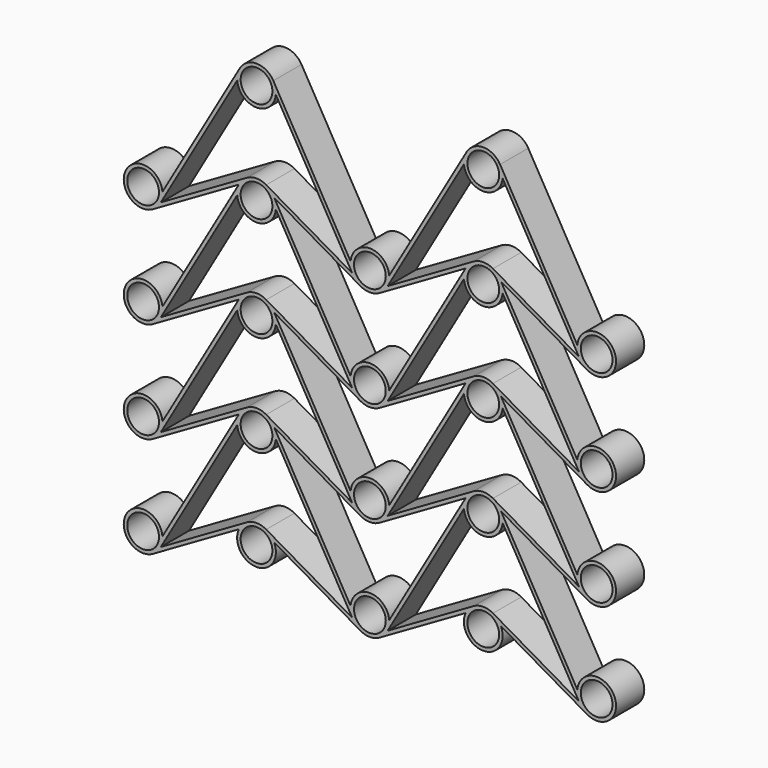
from build123d import *

# Parameters (mm, degrees)
F0_R     = 4.5
F1_DEPTH = 10


with BuildPart() as f1:
    # F0 (on Front) → F1 (new body)
    with BuildSketch(Plane.XZ):
        with BuildLine():
            Line((-5.0260862316, 30.9767425516), (-26.6821867612, -6.5321179012))
            ThreePointArc((-26.6821867612, -6.5321179012), (-37.0411713726, -4.4852449235), (-29.4103165922, -11.7837589152))
            Line((-29.4103165922, -11.7837589152), (-4.9886131993, 2.3159746))
            ThreePointArc((-4.9886131993, 2.3159746), (1.04703e-05, -5.5), (4.9886043814, 2.3159935936))
            Line((4.9886043814, 2.3159935936), (29.3803855621, -11.7664897938))
            Line((29.3803855621, -11.7664897938), (29.4102968085, -11.7837589152))
            ThreePointArc((29.4102968085, -11.7837589152), (32.1604458406, -12.520722091), (34.9106026931, -11.7837880992))
            Line((34.9106026931, -11.7837880992), (59.3322630076, 2.3160200305))
            ThreePointArc((59.3322630076, 2.3160200305), (64.3208938391, -5.4999392347), (69.3094947909, 2.3160391015))
            Line((69.3094947909, 2.3160391015), (93.7311440948, -11.7837880992))
            ThreePointArc((93.7311440948, -11.7837880992), (101.3616643954, -4.4849550373), (91.0027619557, -6.5321346502))
            Line((91.0027619557, -6.5321346502), (69.3471528373, 30.9768645738))
            Line((69.3471528373, 30.9768645738), (93.7311590155, 16.8988117802))
            ThreePointArc((93.7311590155, 16.8988117802), (101.3616229033, 24.197703496), (91.002736164, 22.1504455875))
            Line((91.002736164, 22.1504455875), (69.3471493335, 59.6594696515))
            Line((69.3471493335, 59.6594696515), (93.7311694412, 45.5814375806))
            ThreePointArc((93.7311694412, 45.5814375806), (101.3617019064, 52.8802598575), (91.0027967893, 50.8330869023))
            Line((91.0027967893, 50.8330869023), (69.3471643501, 88.3420408334))
            Line((69.3471643501, 88.3420408334), (69.3094995243, 88.3637867046))
            ThreePointArc((69.3094995243, 88.3637867046), (69.7389379046, 86.9936962439), (69.7991309053, 85.5591433533))
            Line((69.7991309053, 85.5591433533), (91.4549183267, 48.0503287766))
            Line((91.4549183267, 48.0503287766), (67.070869402, 62.1283709446))
            ThreePointArc((67.070869402, 62.1283709446), (64.320838594, 62.8652231845), (61.5708197721, 62.128326212))
            Line((61.5708197721, 62.128326212), (37.1867954039, 48.0503593036))
            Line((37.1867954039, 48.0503593036), (58.8426361049, 85.5591393414))
            ThreePointArc((58.8426361049, 85.5591393414), (58.9028266004, 86.9936839438), (59.3322583087, 88.3637677077))
            Line((59.3322583087, 88.3637677077), (59.2949713292, 88.3422400256))
            Line((59.2949713292, 88.3422400256), (37.6387059062, 50.8330869023))
            ThreePointArc((37.6387059062, 50.8330869023), (32.1604228729, 55.8444793163), (26.6821934568, 50.8330282904))
            Line((26.6821934568, 50.8330282904), (5.0262634508, 88.3418088771))
            Line((5.0262634508, 88.3418088771), (4.9885982667, 88.3635545665))
            ThreePointArc((4.9885982667, 88.3635545665), (5.4180294685, 86.9935693016), (5.4782697334, 85.5591210127))
            Line((5.4782697334, 85.5591210127), (27.1340420376, 48.050297708))
            Line((27.1340420376, 48.050297708), (2.7499513278, 62.1281268209))
            ThreePointArc((2.7499513278, 62.1281268209), (-3.5809e-05, 62.8649589994), (-2.7500133509, 62.1280910122))
            Line((-2.7500133509, 62.1280910122), (-27.1340601257, 48.050336466))
            Line((-27.1340601257, 48.050336466), (-5.4782720397, 85.5591468811))
            ThreePointArc((-5.4782720397, 85.5591468811), (-5.4180290022, 86.9935719723), (-4.9886069196, 88.3635359282))
            Line((-4.9886069196, 88.3635359282), (-5.0254989589, 88.3422366453))
            Line((-5.0254989589, 88.3422366453), (-26.682183023, 50.8330282904))
            ThreePointArc((-26.682183023, 50.8330282904), (-37.0411418963, 52.8799999255), (-29.4103908947, 45.5813862924))
            Line((-29.4103908947, 45.5813862924), (-5.0256353738, 59.6595826996))
            Line((-5.0256353738, 59.6595826996), (-26.6821839443, 22.1504456655))
            ThreePointArc((-26.6821839443, 22.1504456655), (-37.0411455482, 24.19739994), (-29.4103861566, 16.8987960721))
            Line((-29.4103861566, 16.8987960721), (-5.0260862316, 30.9767425516))
        make_face()
        with BuildLine():
            ThreePointArc((-27.6604433261, -7.0206923665), (-28.2557278509, -9.2574751137), (-29.8840864629, -10.9024702364))
            ThreePointArc((-29.8840864629, -10.9024702364), (-36.0651588013, -4.7839096194), (-27.6604433261, -7.0206923665))
        make_face(mode=Mode.SUBTRACT)
        with BuildLine():
            Line((2.249985855, 3.8971224836), (2.5, 3.7527779596))
            Line((2.5, 3.7527779596), (2.5, 3.7416573868))
            ThreePointArc((2.5, 3.7416573868), (3.9686269666, 2.1213203436), (4.5, 0))
            ThreePointArc((4.5, 0), (-2.1213203436, -3.9686269666), (-2.5, 3.7416573868))
            Line((-2.5, 3.7416573868), (-2.5, 3.7527614764))
            Line((-2.5, 3.7527614764), (-2.259868599, 3.8913999942))
            ThreePointArc((-2.259868599, 3.8913999942), (-0.0057099806, 4.4999963773), (2.249985855, 3.8971224836))
        make_face(mode=Mode.SUBTRACT)
        with BuildLine():
            Line((-2.7501213666, 4.7630696477), (-27.134119981, -9.314802918))
            Line((-27.134119981, -9.314802918), (-5.4782714007, 28.1939725706))
            ThreePointArc((-5.4782714007, 28.1939725706), (-1.62686e-05, 23.182380658), (5.4782685113, 28.193940162))
            Line((5.4782685113, 28.193940162), (27.1340554236, -9.3148747086))
            Line((27.1340554236, -9.3148747086), (2.7499814603, 4.7631504211))
            ThreePointArc((2.7499814618, 4.7631504238), (-8.07746e-05, 5.4999999994), (-2.7501213666, 4.7630696477))
        make_face(mode=Mode.SUBTRACT)
        with BuildLine():
            ThreePointArc((-27.6604433261, 21.6619027856), (-28.2606545359, 19.4165414803), (-29.9011755001, 17.7701539641))
            ThreePointArc((-29.9011755001, 17.7701539641), (-36.0602321164, 23.9072640909), (-27.6604433261, 21.6619027856))
        make_face(mode=Mode.SUBTRACT)
        with BuildLine():
            ThreePointArc((-27.6604433261, 50.3444957415), (-28.2582764998, 48.1032697245), (-29.8929295747, 46.457545602))
            ThreePointArc((-29.8929295747, 46.457545602), (-36.0626101525, 52.5857217585), (-27.6604433261, 50.3444957415))
        make_face(mode=Mode.SUBTRACT)
        with BuildLine():
            ThreePointArc((2.5, 32.4240380448), (3.9686269666, 30.8037010015), (4.5, 28.682380658))
            ThreePointArc((4.5, 28.682380658), (-2.1213203436, 24.7137536914), (-2.5, 32.4240380448))
            Line((-2.5, 32.4240380448), (-2.5, 32.4351443463))
            Line((-2.5, 32.4351443463), (-2.2597746546, 32.5738352074))
            ThreePointArc((-2.2597746546, 32.5738352074), (-0.0056689995, 33.1823770871), (2.2499627546, 32.5795164784))
            Line((2.249962754, 32.5795164774), (2.5, 32.4351605923))
            Line((2.5, 32.4351605923), (2.5, 32.4240380448))
        make_face(mode=Mode.SUBTRACT)
        with BuildLine():
            Line((27.1340507109, 19.3677012386), (2.7499614971, 33.4455426082))
            ThreePointArc((2.7499614971, 33.4455426082), (-1.01537e-05, 34.182380658), (-2.7499790839, 33.4455324546))
            Line((-2.7499790839, 33.4455324546), (-27.1340372835, 19.3677240385))
            Line((-27.1340372835, 19.3677240385), (-5.4782710587, 56.8765470753))
            ThreePointArc((-5.4782710587, 56.8765470753), (-1.41697e-05, 51.8649589996), (5.478268542, 56.8765188479))
            Line((5.478268542, 56.8765188479), (27.1340507109, 19.3677012386))
        make_face(mode=Mode.SUBTRACT)
        with Locations((32.16044, -7.0206923665)):
            Circle(F0_R, mode=Mode.SUBTRACT)
        with BuildLine():
            Line((66.5708811001, 3.8971763674), (66.8208833261, 3.7528377053))
            Line((66.8208833261, 3.7528377053), (66.8208833261, 3.7417181521))
            ThreePointArc((66.8208833261, 3.7417181521), (68.2895102927, 2.1213811089), (68.8208833261, 6.07653e-05))
            ThreePointArc((68.8208833261, 6.07653e-05), (62.1995629826, -3.9685662013), (61.8208833261, 3.7417181521))
            Line((61.8208833261, 3.7417181521), (61.8208833261, 3.7528211548))
            Line((61.8208833261, 3.7528211548), (62.0609826936, 3.8914421564))
            ThreePointArc((62.0609826936, 3.8914421564), (64.3151617052, 4.5000571279), (66.5708811002, 3.8971763675))
        make_face(mode=Mode.SUBTRACT)
        with BuildLine():
            Line((34.9105788911, 16.8988117802), (59.2959367205, 30.9776082046))
            Line((59.2959367205, 30.9776082046), (37.6387304307, -6.5321346502))
            ThreePointArc((37.6387304307, -6.5321346502), (32.1604834307, -1.5207220911), (26.682221109, -6.5321179012))
            Line((26.682221109, -6.5321179012), (5.0262536293, 30.9766595709))
            Line((5.0262536293, 30.9766595709), (29.3845827253, 16.9136821038))
            Line((29.3845827253, 16.9136821038), (29.4103666576, 16.8987960721))
            ThreePointArc((29.4103666576, 16.8987960721), (32.1604748789, 16.1618823789), (34.9105788911, 16.8988117802))
        make_face(mode=Mode.SUBTRACT)
        with Locations((96.4813233261, -7.0206923665)):
            Circle(F0_R, mode=Mode.SUBTRACT)
        with BuildLine():
            ThreePointArc((36.66044, 21.6619027856), (36.0602304965, 19.4165444437), (34.4197137406, 17.7701573977))
            ThreePointArc((34.4197137406, 17.7701573977), (28.2606495035, 23.9072611275), (36.66044, 21.6619027856))
        make_face(mode=Mode.SUBTRACT)
        with BuildLine():
            Line((69.0840352364, 31.432602292), (69.3471528373, 30.9768645738))
            Line((69.3471528373, 30.9768645738), (69.3094918583, 30.9986080579))
            ThreePointArc((69.3094918583, 30.9986080579), (69.7389358556, 29.6285128215), (69.7991314049, 28.1939537955))
            Line((69.7991314049, 28.1939537955), (91.4549221062, -9.3148588876))
            Line((91.4549221062, -9.3148588876), (67.0708727806, 4.7632065742))
            ThreePointArc((67.0708727807, 4.7632065745), (64.3208495303, 5.5000607652), (61.5708353355, 4.7631727784))
            Line((61.5708353355, 4.7631727784), (37.1868165325, -9.314828539))
            Line((37.1868165325, -9.314828539), (58.8426342696, 28.1939647571))
            ThreePointArc((58.8426342696, 28.1939647571), (58.9028291267, 29.6285032555), (59.3322619817, 30.9985804603))
            Line((59.3322619817, 30.9985804603), (59.2959367205, 30.9776082046))
            Line((59.2959367205, 30.9776082046), (59.5119811029, 31.3517917036))
            ThreePointArc((59.5119811029, 31.3517917036), (60.3990460269, 32.5386825588), (61.5707642653, 33.445694384))
            Line((61.5707642653, 33.445694384), (37.1868157494, 19.3677122378))
            Line((37.1868157494, 19.3677122378), (58.8426398613, 56.8765018534))
            ThreePointArc((58.8426398613, 56.8765018534), (64.3208895561, 51.8652231847), (69.7991278981, 56.8765142639))
            Line((69.7991278981, 56.8765142639), (91.4549309813, 19.3677087295))
            Line((91.4549309813, 19.3677087295), (67.0709848501, 33.4457045094))
            ThreePointArc((67.0709848501, 33.4457045094), (68.2100206889, 32.5716606346), (69.0840352364, 31.432602292))
        make_face(mode=Mode.SUBTRACT)
        with BuildLine():
            ThreePointArc((37.6387167403, 22.1504455875), (32.1604592106, 27.1618823788), (26.6822016095, 22.1504456655))
            Line((26.6822016095, 22.1504456655), (5.0262518288, 59.6592404482))
            Line((5.0262518288, 59.6592404482), (29.3896234434, 45.593364864))
            Line((29.3896234434, 45.593364864), (29.4103714154, 45.5813862924))
            ThreePointArc((29.4103714154, 45.5813862924), (32.160484252, 44.8444793164), (34.9105885252, 45.5814182506))
            ThreePointArc((34.9105885252, 45.5814182506), (34.9172946749, 45.5852966036), (34.9239953553, 45.5891843986))
            Line((34.9239953553, 45.5891843986), (59.2955847954, 59.6600143121))
            Line((59.2955847954, 59.6600143121), (37.6387167403, 22.1504455875))
        make_face(mode=Mode.SUBTRACT)
        with BuildLine():
            ThreePointArc((36.66044, 50.3444957415), (36.0632117181, 48.1043232222), (34.4300520372, 46.4587704295))
            ThreePointArc((34.4300520372, 46.4587704295), (28.2576682819, 52.5846682609), (36.66044, 50.3444957415))
        make_face(mode=Mode.SUBTRACT)
        with Locations((96.4813233261, 21.661881525)):
            Circle(F0_R, mode=Mode.SUBTRACT)
        with Locations((96.4813233261, 50.3444957415)):
            Circle(F0_R, mode=Mode.SUBTRACT)
        with BuildLine():
            ThreePointArc((2.5, 61.1066163863), (3.9686269666, 59.4862793431), (4.5, 57.3649589996))
            ThreePointArc((4.5, 57.3649589996), (-2.1213203436, 53.396332033), (-2.5, 61.1066163863))
            Line((-2.5, 61.1066163863), (-2.5, 61.1177228402))
            Line((-2.5, 61.1177228402), (-2.2597677403, 61.2564175642))
            ThreePointArc((-2.2597677403, 61.2564175642), (-0.0056659104, 61.8649554326), (2.2499611808, 61.2620957286))
            Line((2.2499611808, 61.2620957286), (2.5, 61.1177390699))
            Line((2.5, 61.1177390699), (2.5, 61.1066163863))
        make_face(mode=Mode.SUBTRACT)
        with BuildLine():
            ThreePointArc((66.8208833261, 61.1068805714), (68.2895102927, 59.4865435282), (68.8208833261, 57.3652231847))
            ThreePointArc((68.8208833261, 57.3652231847), (62.1995629826, 53.3965962181), (61.8208833261, 61.1068805714))
            Line((61.8208833261, 61.1068805714), (61.8208833261, 61.117984306))
            Line((61.8208833261, 61.117984306), (62.0609954759, 61.256611999))
            ThreePointArc((62.0609954759, 61.256611999), (64.3151642563, 61.8652195505), (66.5708727176, 61.2623436265))
            Line((66.5708727176, 61.2623436265), (66.8208833261, 61.1180008418))
            Line((66.8208833261, 61.1180008418), (66.8208833261, 61.1068805714))
        make_face(mode=Mode.SUBTRACT)
        with BuildLine():
            Line((-29.4103473337, 74.2638665364), (-5.0254989589, 88.3422366453))
            Line((-5.0254989589, 88.3422366453), (-4.7980219251, 88.7362250986))
            ThreePointArc((-4.7980219251, 88.7362250986), (-3.913929433, 89.9116332555), (-2.7499484352, 90.8107172932))
            Line((-2.7499484352, 90.8107172932), (-27.1339889586, 76.7328122849))
            Line((-27.1339889586, 76.7328122849), (-5.4782776301, 114.241667016))
            ThreePointArc((-5.4782776301, 114.241667016), (-7.215e-07, 109.2300052267), (5.4782775019, 114.2416655788))
            Line((5.4782775019, 114.2416655788), (27.1339802725, 76.7328021289))
            Line((27.1339802725, 76.7328021289), (2.7499306884, 90.8107275391))
            ThreePointArc((2.7499306884, 90.8107275391), (3.8890502347, 89.9366721598), (4.7631273247, 88.7975692725))
            Line((4.7631273247, 88.7975692725), (5.0262634508, 88.3418088771))
            Line((5.0262634508, 88.3418088771), (29.3846798725, 74.2786742291))
            Line((29.3846798725, 74.2786742291), (29.4103279201, 74.2638665364))
            ThreePointArc((29.4103279201, 74.2638665364), (32.1604860242, 73.5269291257), (34.9106375594, 74.2638910505))
            ThreePointArc((34.9106375594, 74.2638910505), (34.9171937746, 74.2676826276), (34.9237447626, 74.2714832292))
            Line((34.9237447626, 74.2714832292), (59.2949713292, 88.3422400256))
            Line((59.2949713292, 88.3422400256), (59.5330588654, 88.7546131507))
            ThreePointArc((59.5330588654, 88.7546131507), (60.4141978412, 89.9192276776), (61.5707720776, 90.810894054))
            Line((61.5707720776, 90.810894054), (37.1868904814, 76.732866801))
            Line((37.1868904814, 76.732866801), (58.8426365214, 114.2417014915))
            ThreePointArc((58.8426365214, 114.2417014915), (64.3208768961, 109.2303853835), (69.7991289882, 114.2416886823))
            Line((69.7991289882, 114.2416886823), (91.4548769083, 76.7328512994))
            Line((91.4548769083, 76.7328512994), (67.0709769522, 90.8109042289))
            ThreePointArc((67.0709769522, 90.8109042289), (68.2100155411, 89.9368609419), (69.0840325162, 88.797802163))
            Line((69.0840325162, 88.797802163), (69.3471643501, 88.3420408334))
            Line((69.3471643501, 88.3420408334), (93.7311200101, 74.2639095895))
            ThreePointArc((93.7311200101, 74.2639095895), (101.361574516, 81.5628041571), (91.0026877639, 79.5155711141))
            Line((91.0026877639, 79.5155711141), (69.0840410302, 117.4803542353))
            ThreePointArc((69.0840410302, 117.4803542353), (64.2890582032, 120.2302933065), (59.526220355, 117.4250480697))
            Line((59.526220355, 117.4250480697), (37.6387120541, 79.5155711141))
            ThreePointArc((37.6387120541, 79.5155711141), (32.1604226792, 84.5269291255), (26.6822040695, 79.5154937566))
            Line((26.6822040695, 79.5154937566), (4.7631264959, 117.4800281328))
            ThreePointArc((4.7631264959, 117.4800281328), (-0.0316897714, 120.2299139312), (-4.794499752, 117.4249583112))
            Line((-4.794499752, 117.4249583112), (-26.6821839481, 79.5154937566))
            ThreePointArc((-26.6821839481, 79.5154937566), (-37.041155891, 81.5624280796), (-29.4103473337, 74.2638665364))
        make_face()
        with BuildLine():
            ThreePointArc((-27.6604433261, 79.0269508347), (-28.2606384829, 76.7816174107), (-29.9011198527, 75.1352343185))
            ThreePointArc((-29.9011198527, 75.1352343185), (-36.0602481694, 81.2722842586), (-27.6604433261, 79.0269508347))
        make_face(mode=Mode.SUBTRACT)
        with Locations((0, 114.7300052267)):
            Circle(F0_R, mode=Mode.SUBTRACT)
        with BuildLine():
            ThreePointArc((36.66044, 79.0269508347), (36.0602467552, 76.7816207316), (34.4197701015, 75.1352381664))
            ThreePointArc((34.4197701015, 75.1352381664), (28.2606332448, 81.2722809377), (36.66044, 79.0269508347))
        make_face(mode=Mode.SUBTRACT)
        with Locations((96.4813233261, 79.0269833331)):
            Circle(F0_R, mode=Mode.SUBTRACT)
        with Locations((64.3208833261, 114.7303853835)):
            Circle(F0_R, mode=Mode.SUBTRACT)
        with BuildLine():
            Line((59.5330588654, 88.7546131507), (59.2949713292, 88.3422400256))
            Line((59.2949713292, 88.3422400256), (59.3322583087, 88.3637677077))
            ThreePointArc((59.3322583087, 88.3637677077), (58.9028266004, 86.9936839438), (58.8426361049, 85.5591393414))
            ThreePointArc((58.8426361049, 85.5591393414), (64.3208853401, 80.5478185643), (69.7991309053, 85.5591433533))
            ThreePointArc((69.7991309053, 85.5591433533), (69.7389379046, 86.9936962439), (69.3094995243, 88.3637867046))
            Line((69.3094995243, 88.3637867046), (69.3471643501, 88.3420408334))
            Line((69.3471643501, 88.3420408334), (69.0840325162, 88.797802163))
            ThreePointArc((69.0840325162, 88.797802163), (68.2100155411, 89.9368609419), (67.0709769522, 90.8109042289))
            ThreePointArc((67.0709769522, 90.8109042289), (64.3208731517, 91.5478185643), (61.5707720776, 90.810894054))
            ThreePointArc((61.5707720776, 90.810894054), (60.4141978412, 89.9192276776), (59.5330588654, 88.7546131507))
        make_face()
        with BuildLine():
            ThreePointArc((66.8208833261, 89.7894759511), (68.2895102927, 88.1691389079), (68.8208833261, 86.0478185643))
            ThreePointArc((68.8208833261, 86.0478185643), (62.1995629826, 82.0791915977), (61.8208833261, 89.7894759511))
            Line((61.8208833261, 89.7894759511), (61.8208833261, 89.800578337))
            Line((61.8208833261, 89.800578337), (62.0609940214, 89.939206534))
            ThreePointArc((62.0609940214, 89.939206534), (64.3151728536, 90.547814941), (66.5708890653, 89.9449295678))
            Line((66.5708890653, 89.9449295678), (66.8208833261, 89.8005948232))
            Line((66.8208833261, 89.8005948232), (66.8208833261, 89.7894759511))
        make_face(mode=Mode.SUBTRACT)
        with BuildLine():
            Line((-4.7980219251, 88.7362250986), (-5.0254989589, 88.3422366453))
            Line((-5.0254989589, 88.3422366453), (-4.9886069196, 88.3635359282))
            ThreePointArc((-4.9886069196, 88.3635359282), (-5.4180290022, 86.9935719723), (-5.4782720397, 85.5591468811))
            ThreePointArc((-5.4782720397, 85.5591468811), (-1.29855e-05, 80.5475478019), (5.4782697334, 85.5591210127))
            ThreePointArc((5.4782697334, 85.5591210127), (5.4180294685, 86.9935693016), (4.9885982667, 88.3635545665))
            Line((4.9885982667, 88.3635545665), (5.0262634508, 88.3418088771))
            Line((5.0262634508, 88.3418088771), (4.7631273247, 88.7975692725))
            ThreePointArc((4.7631273247, 88.7975692725), (3.8890502347, 89.9366721598), (2.7499306884, 90.8107275391))
            ThreePointArc((2.7499306884, 90.8107275391), (-1.02461e-05, 91.5475478018), (-2.7499484352, 90.8107172932))
            ThreePointArc((-2.7499484352, 90.8107172932), (-3.913929433, 89.9116332555), (-4.7980219251, 88.7362250986))
        make_face()
        with BuildLine():
            ThreePointArc((2.5, 89.7892051886), (3.9686269666, 88.1688681454), (4.5, 86.0475478018))
            ThreePointArc((4.5, 86.0475478018), (-2.1213203436, 82.0789208353), (-2.5, 89.7892051886))
            Line((-2.5, 89.7892051886), (-2.5, 89.8003104667))
            Line((-2.5, 89.8003104667), (-2.2597655514, 89.9390076375))
            ThreePointArc((-2.2597655514, 89.9390076375), (-0.0056563397, 90.5475442469), (2.2499755657, 89.9446762259))
            Line((2.2499755657, 89.9446762259), (2.5, 89.8003266416))
            Line((2.5, 89.8003266416), (2.5, 89.7892051886))
        make_face(mode=Mode.SUBTRACT)
        with BuildLine():
            Line((69.3094918583, 30.9986080579), (69.3471528373, 30.9768645738))
            Line((69.3471528373, 30.9768645738), (69.0840352364, 31.432602292))
            ThreePointArc((69.0840352364, 31.432602292), (68.2100206889, 32.5716606346), (67.0709848501, 33.4457045094))
            ThreePointArc((67.0709848501, 33.4457045094), (64.3208732011, 34.1826234049), (61.5707642653, 33.445694384))
            ThreePointArc((61.5707642653, 33.445694384), (60.3990460269, 32.5386825588), (59.5119811029, 31.3517917036))
            Line((59.5119811029, 31.3517917036), (59.2959367205, 30.9776082046))
            Line((59.2959367205, 30.9776082046), (59.3322619817, 30.9985804603))
            ThreePointArc((59.3322619817, 30.9985804603), (58.9028291267, 29.6285032555), (58.8426342696, 28.1939647571))
            ThreePointArc((58.8426342696, 28.1939647571), (64.3208778236, 23.1826234049), (69.7991314049, 28.1939537955))
            ThreePointArc((69.7991314049, 28.1939537955), (69.7389358556, 29.6285128215), (69.3094918583, 30.9986080579))
        make_face()
        with BuildLine():
            ThreePointArc((66.8208833261, 32.4242807917), (68.2895102927, 30.8039437485), (68.8208833261, 28.6826234049))
            ThreePointArc((68.8208833261, 28.6826234049), (62.1995629826, 24.7139964383), (61.8208833261, 32.4242807917))
            Line((61.8208833261, 32.4242807917), (61.8208833261, 32.4353768169))
            Line((61.8208833261, 32.4353768169), (62.0589803511, 32.5728412563))
            ThreePointArc((62.0589803511, 32.5728412563), (64.3140009282, 33.1826181419), (66.5708761656, 32.5797418561))
            Line((66.5708761656, 32.5797418561), (66.8208833261, 32.4354007671))
            Line((66.8208833261, 32.4354007671), (66.8208833261, 32.4242807917))
        make_face(mode=Mode.SUBTRACT)
        with BuildLine():
            Line((29.4102968085, -11.7837589152), (29.3803855621, -11.7664897938))
            ThreePointArc((29.3803855621, -11.7664897938), (32.1431618588, -12.5207583878), (34.9106026931, -11.7837880992))
            ThreePointArc((34.9106026931, -11.7837880992), (32.1604458406, -12.520722091), (29.4102968085, -11.7837589152))
        make_face()
    extrude(amount=F1_DEPTH)


solid = f1.part
